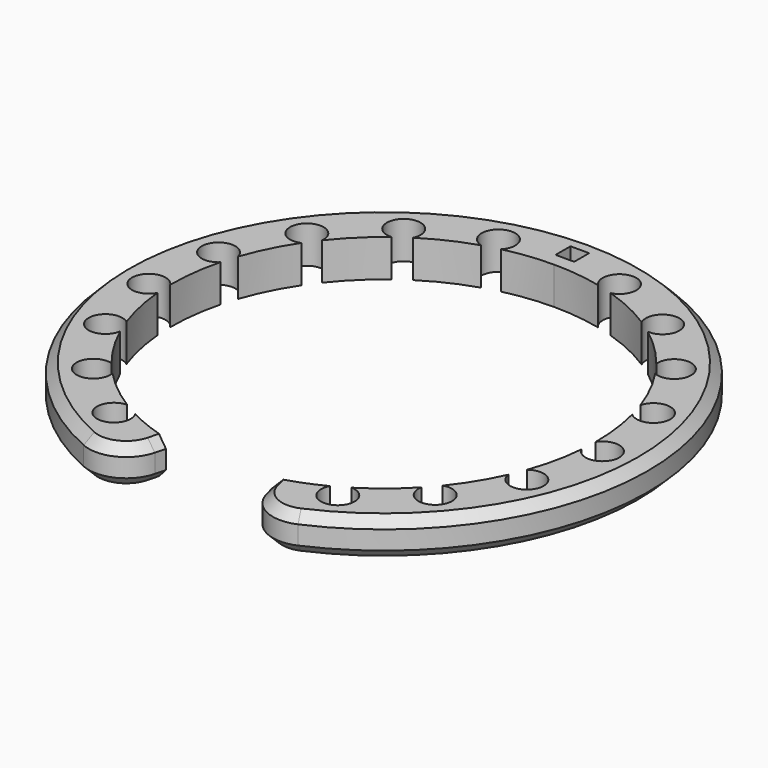
from build123d import *

# Parameters (mm, degrees)
PAD_DEPTH             = 4
POCKET_DEPTH          = 129.213319
POLARPATTERN_COUNT    = 8
POLARPATTERN_ANGLE    = 135
POCKET001_DEPTH       = 163.025541
POLARPATTERN001_COUNT = 8
POLARPATTERN001_ANGLE = 135
FILLET_R              = 4
CHAMFER_SIZE          = 1
CHAMFER001_SIZE       = 1
SKETCH004_W           = 2
SKETCH004_H           = 2
POCKET002_DEPTH       = 4.001


with BuildPart() as part:
    # Sketch → Pad (new body)
    with BuildSketch(Plane.XY):
        with BuildLine():
            ThreePointArc((5.7, -22.076005), (22.618277, 2.872898), (0, 22.8))
            Line((0, 22.8), (0, 28.3))
            ThreePointArc((7.075, -27.401357), (28.07444, 3.565921), (0, 28.3))
            Line((5.7, -22.076005), (7.075, -27.401357))
        make_face()
    pad = extrude(amount=PAD_DEPTH)

    # Sketch001 → Pocket (cut, through all)
    with BuildSketch(Plane.XY):
        with BuildLine():
            Line((0, 0), (10.448469, -20.264982))
            ThreePointArc((10.448469, -20.264982), (12.887389, -22.743593), (12.014528, -19.377593))
            Line((12.014528, -19.377593), (0, 0))
        make_face()
    pocket = extrude(amount=POCKET_DEPTH, mode=Mode.SUBTRACT)

    # PolarPattern: Pocket ×8 about axis
    polarpattern_axis = Axis((0, 0, 0), (0, 0, 1))
    for i in range(1, POLARPATTERN_COUNT):
        add(pocket.rotate(polarpattern_axis, i * POLARPATTERN_ANGLE / (POLARPATTERN_COUNT - 1)), mode=Mode.SUBTRACT)

    # Mirrored: Pad across Sketch V_Axis
    add(pad.mirror(Plane(origin=(0, 0, 0), x_dir=(0, 0, 1), z_dir=(1, 0, 0))))

    # Sketch003 → Pocket001 (cut, through all)
    with BuildSketch(Plane.XY):
        with BuildLine():
            Line((0, 0), (-12.014528, -19.377593))
            ThreePointArc((-12.014528, -19.377593), (-12.887389, -22.743593), (-10.448469, -20.264982))
            Line((-10.448469, -20.264982), (0, 0))
        make_face()
    pocket001 = extrude(amount=POCKET001_DEPTH, mode=Mode.SUBTRACT)

    # PolarPattern001: Pocket001 ×8 about axis
    polarpattern001_axis = Axis((0, 0, 0), (0, 0, -1))
    for i in range(1, POLARPATTERN001_COUNT):
        add(pocket001.rotate(polarpattern001_axis, i * POLARPATTERN001_ANGLE / (POLARPATTERN001_COUNT - 1)), mode=Mode.SUBTRACT)

    # Fillet
    fillet_edges = [part.edges().sort_by_distance(p)[0] for p in [
        (7.075, -27.401357, 2),
        (-7.075, -27.401357, 2),
    ]]
    fillet(fillet_edges, radius=FILLET_R)

    # Chamfer
    chamfer_edges = [part.edges().sort_by_distance(p)[0] for p in [
        (8.125118, -25.809145, 4),
        (27.684037, 5.872314, 4),
        (-27.684037, 5.872314, 4),
        (-8.125118, -25.809145, 4),
        (-5.846065, -22.641713, 4),
        (5.846065, -22.641713, 4),
    ]]
    chamfer(chamfer_edges, length=CHAMFER_SIZE)

    # Chamfer001
    chamfer001_edges = [part.edges().sort_by_distance(p)[0] for p in [
        (-8.125118, -25.809145, 0),
        (-5.846065, -22.641713, 0),
        (-27.684037, 5.872314, 0),
        (27.684037, 5.872314, 0),
        (8.125118, -25.809145, 0),
        (5.846065, -22.641713, 0),
    ]]
    chamfer(chamfer001_edges, length=CHAMFER001_SIZE)

    # Sketch004 → Pocket002 (cut, through all)
    with BuildSketch(Plane.XY):
        with Locations((0, 25.25)):
            Rectangle(SKETCH004_W, SKETCH004_H)
    extrude(amount=POCKET002_DEPTH, mode=Mode.SUBTRACT)


solid = part.part
